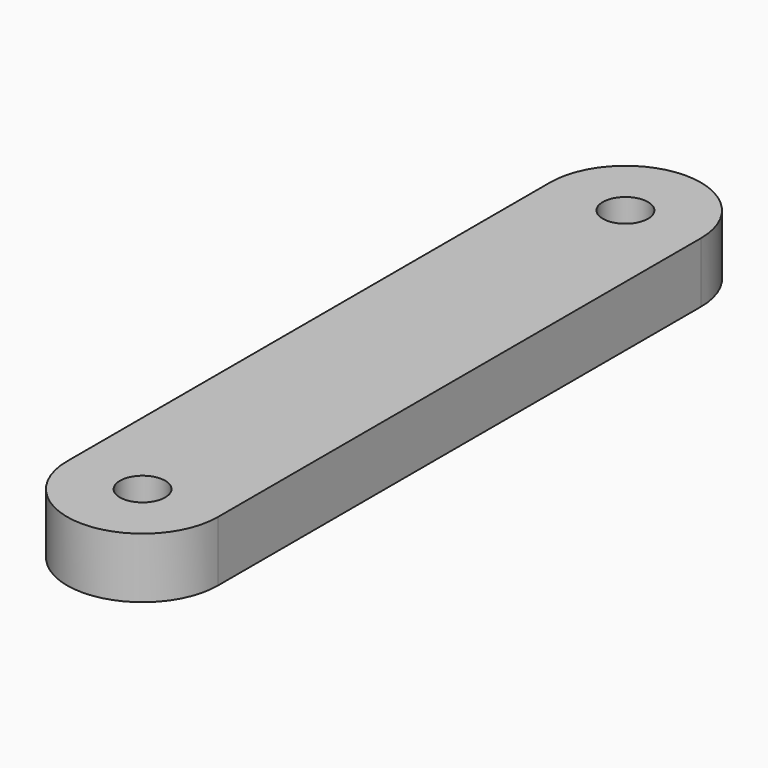
from build123d import *

# Parameters (mm, degrees)
F0_R     = 1.5
F1_DEPTH = 4


with BuildPart() as f1:
    # F0 (on Top) → F1 (new body)
    with BuildSketch(Plane.XY):
        with BuildLine():
            ThreePointArc((-5, 23.960336), (0, 18.960336), (5, 23.960336))
            ThreePointArc((5, 23.960336), (0, 28.960336), (-5, 23.960336))
        make_face()
        with Locations((0, 23.960336)):
            Circle(F0_R, mode=Mode.SUBTRACT)
        with BuildLine():
            Line((5, -16.039664), (5, 23.960336))
            ThreePointArc((5, 23.960336), (0, 18.960336), (-5, 23.960336))
            Line((-5, 23.960336), (-5, -16.039664))
            ThreePointArc((-5, -16.039664), (0, -11.039664), (5, -16.039664))
        make_face()
        with BuildLine():
            ThreePointArc((-5, -16.039664), (0, -21.039664), (5, -16.039664))
            ThreePointArc((5, -16.039664), (0, -11.039664), (-5, -16.039664))
        make_face()
        with Locations((0, -16.039664)):
            Circle(F0_R, mode=Mode.SUBTRACT)
    extrude(amount=F1_DEPTH)


solid = f1.part
